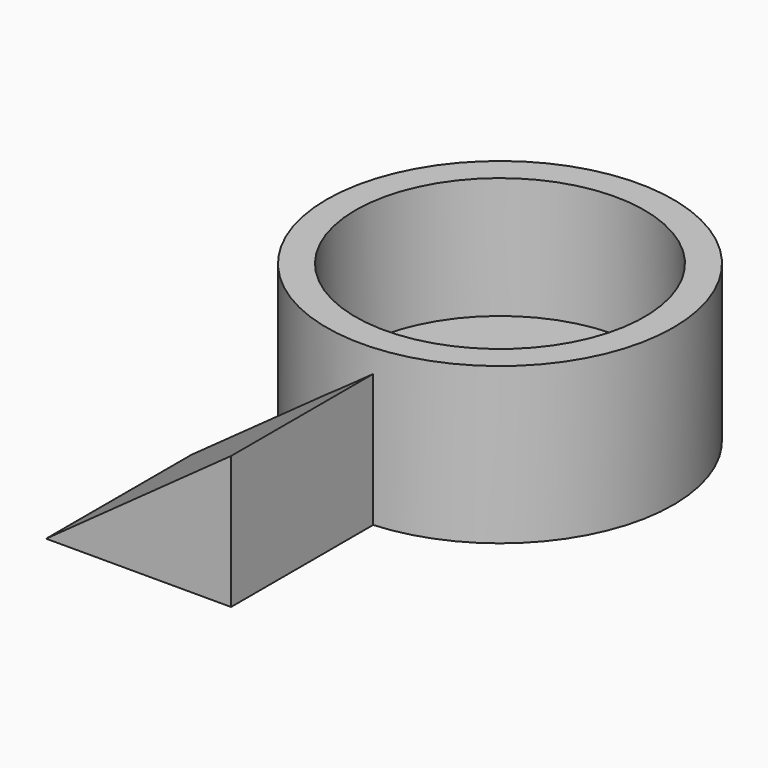
from build123d import *

# Parameters (mm, degrees)
F0_W     = 4.0409089997
F0_H     = 16.9718191028
F0_H_2   = 4.8490911722
F0_W_2   = 20.2045468614
F4_DEPTH = 25.4


with BuildPart() as f1:
    # F0 (on Front) → F1 (revolve)
    with BuildSketch(Plane.XZ):
        with Locations((2.0204544999, 13.3350007236)):
            Rectangle(F0_W, F0_H)
        with Locations((2.0204544999, 2.4245455861)):
            Rectangle(F0_W, F0_H_2)
        with Locations((14.1431824304, 2.4245455861)):
            Rectangle(F0_W_2, F0_H_2)
    revolve(axis=Axis((24.2454558611, 0, 2.4245455861), (0, 0, 1)))

    # F3 (on offset) → F4 (join)
    with BuildSketch(Plane.XZ.offset(23.622)):
        Polygon((25.8618183434, 18.5881815851), (0, 0), (25.8618183434, 0), align=None)
    extrude(amount=F4_DEPTH)


solid = f1.part
